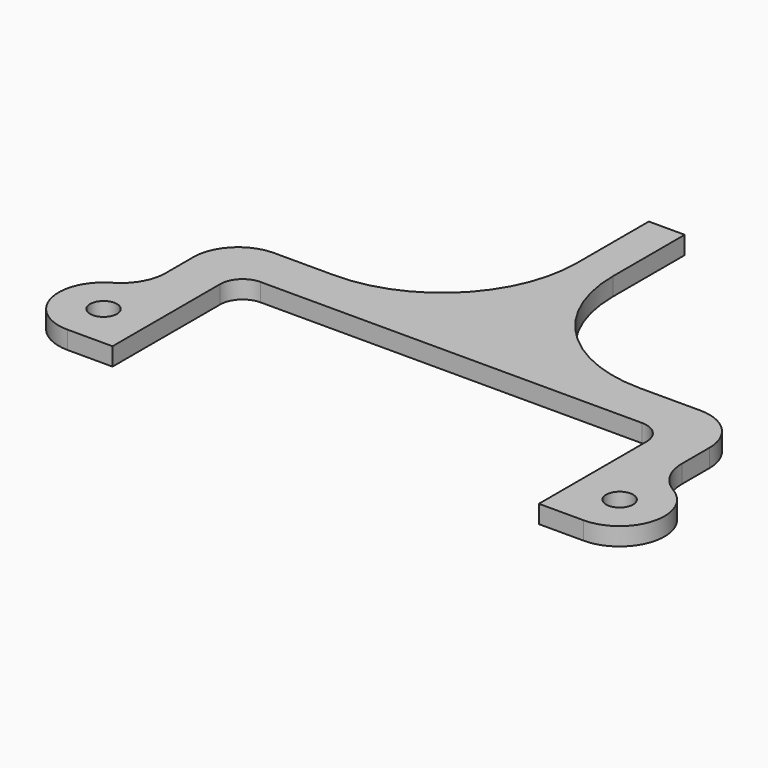
from build123d import *

# Parameters (mm, degrees)
F0_R     = 3
F1_DEPTH = 4


with BuildPart() as f1:
    # F0 (on Top) → F1 (new body)
    with BuildSketch(Plane.XY):
        with BuildLine():
            ThreePointArc((-57.5, 17.320508), (-58.839746, 12.320508), (-62.5, 8.660254))
            ThreePointArc((-62.5, 8.660254), (-67.159258, -2.58819), (-57.5, -10))
            Line((-57.5, -10), (-47.5, -10))
            Line((-47.5, -10), (-47.5, 20))
            ThreePointArc((-47.5, 20), (-46.035534, 23.535534), (-42.5, 25))
            Line((-42.5, 25), (42.5, 25))
            ThreePointArc((42.5, 25), (46.035534, 23.535534), (47.5, 20))
            Line((47.5, 20), (47.5, -10))
            Line((47.5, -10), (57.5, -10))
            ThreePointArc((57.5, -10), (67.159258, -2.58819), (62.5, 8.660254))
            ThreePointArc((62.5, 8.660254), (58.839746, 12.320508), (57.5, 17.320508))
            Line((57.5, 17.320508), (57.5, 25))
            ThreePointArc((57.5, 25), (54.571068, 32.071068), (47.5, 35))
            Line((47.5, 35), (34, 35))
            ThreePointArc((34, 35), (12.786797, 43.786797), (4, 65))
            Line((4, 65), (4, 85))
            Line((4, 85), (-4, 85))
            Line((-4, 85), (-4, 65))
            ThreePointArc((-4, 65), (-12.786797, 43.786797), (-34, 35))
            Line((-34, 35), (-47.5, 35))
            ThreePointArc((-47.5, 35), (-54.571068, 32.071068), (-57.5, 25))
            Line((-57.5, 25), (-57.5, 17.320508))
        make_face()
        with Locations((-57.5, 0)):
            Circle(F0_R, mode=Mode.SUBTRACT)
        with Locations((57.5, 0)):
            Circle(F0_R, mode=Mode.SUBTRACT)
    extrude(amount=F1_DEPTH)


solid = f1.part
